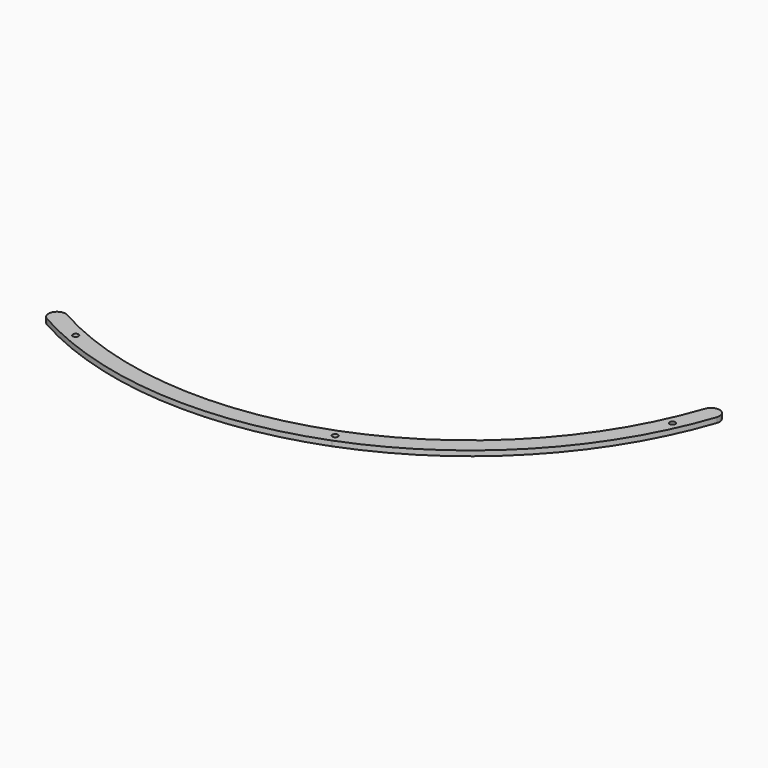
from build123d import *

# Parameters (mm, degrees)
PAD014_DEPTH                        = 3
SKETCH055_R                         = 1.65
POCKET019_DEPTH                     = 364.282338
POCKET019_DEPTH_BACK                = 367.282338
BODY001003005003003_PLACEMENT_ANGLE = 60
CLONE_PLACEMENT_ANGLE               = 141


with BuildPart() as part:
    # Sketch052 → Pad014 (new body)
    with BuildSketch(Plane.XY):
        with BuildLine():
            ThreePointArc((152.959511, 127.101705), (84.480895, 180.040089), (0, 198.875477))
            Line((0, 198.875477), (0, 208.875477))
            ThreePointArc((160.650731, 133.492724), (88.728824, 189.092995), (0, 208.875477))
            ThreePointArc((152.959511, 127.101705), (160.000631, 126.451604), (160.650731, 133.492724))
        make_face()
    pad014 = extrude(amount=PAD014_DEPTH)

    # Sketch055 → Pocket019 (cut, two sides)
    with BuildSketch(Plane.XY) as pocket019_sk:
        with Locations((143.11, 145.205847)):
            Circle(SKETCH055_R)
        with BuildLine():
            Line((0, 202.225477), (0, 205.525477))
            ThreePointArc((0, 202.225477), (1.65, 203.875477), (0, 205.525477))
        make_face()
    pocket019 = extrude(amount=-POCKET019_DEPTH, mode=Mode.SUBTRACT) + extrude(pocket019_sk.sketch, amount=POCKET019_DEPTH_BACK, mode=Mode.SUBTRACT)

    # Mirrored019: Pad014, Pocket019 across Sketch052 V_Axis
    add(pad014.mirror(Plane(origin=(0, 0, 0), x_dir=(0, 0, 1), z_dir=(1, 0, 0))))
    add(pocket019.mirror(Plane(origin=(0, 0, 0), x_dir=(0, 0, 1), z_dir=(1, 0, 0))), mode=Mode.SUBTRACT)


with BuildPart() as part_1:
    # Body001003005003003 placement: moved
    add(part.part.rotate(Axis((0, 0, 0), (0, 0, 1)), BODY001003005003003_PLACEMENT_ANGLE))


with BuildPart() as part_2:
    # Clone placement: moved
    add(part_1.part.moved(Location((1296, 766, 0))).rotate(Axis((1296, 766, 0), (0, 0, 1)), CLONE_PLACEMENT_ANGLE))


solid = part_2.part
